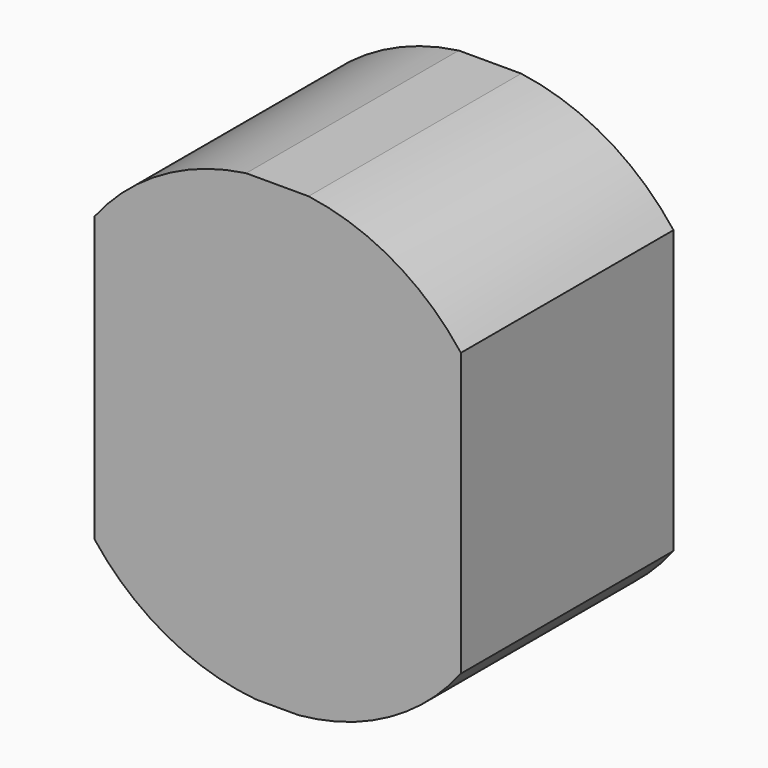
from build123d import *

# Parameters (mm, degrees)
CIRCLE_AS_DRAWN_R                       = 11.25
EXTRUDE002_DEPTH                        = 13
EXTRUDE002_ONTO_CIRCLE_ROLL_ANGLE       = 90
EXTRUDE002_ONTO_CIRCLE_PLACEMENT_ANGLE  = 180
RECTANGLE004_AS_DRAWN_W                 = 17.799999
RECTANGLE004_AS_DRAWN_H                 = 22.34914
EXTRUDE008_DEPTH                        = 13
EXTRUDE008_ONTO_RECTANGLE004_ROLL_ANGLE = 90


with BuildPart() as caixamotor:
    # Circle as drawn → Extrude002 (new)
    with BuildSketch(Plane.XY):
        Circle(CIRCLE_AS_DRAWN_R)
    extrude(amount=EXTRUDE002_DEPTH)


with BuildPart() as caixamotor_1:
    # Extrude002 onto Circle roll: moved
    add(caixamotor.part.rotate(Axis((0, 0, 0), (1, 0, 0)), EXTRUDE002_ONTO_CIRCLE_ROLL_ANGLE))


with BuildPart() as caixamotor_2:
    # Extrude002 onto Circle placement: moved
    add(caixamotor_1.part.moved(Location((9.4, 37, 11.25))).rotate(Axis((9.4, 37, 11.25), (0, 0, 1)), EXTRUDE002_ONTO_CIRCLE_PLACEMENT_ANGLE))


with BuildPart() as booleancaixamotor:
    # Rectangle004 as drawn → Extrude008 (new)
    with BuildSketch(Plane.XY):
        with Locations((8.899999, -11.17457)):
            Rectangle(RECTANGLE004_AS_DRAWN_W, RECTANGLE004_AS_DRAWN_H)
    extrude(amount=-EXTRUDE008_DEPTH)


with BuildPart() as booleancaixamotor_1:
    # Extrude008 onto Rectangle004 roll: moved
    add(booleancaixamotor.part.rotate(Axis((0, 0, 0), (1, 0, 0)), EXTRUDE008_ONTO_RECTANGLE004_ROLL_ANGLE))


with BuildPart() as booleancaixamotor_2:
    # Extrude008 onto Rectangle004 placement: moved
    add(booleancaixamotor_1.part.moved(Location((0.516884, 1.09014, 22.397291))))


with BuildPart() as booleancaixamotor_3:
    # Extrude008 placement: moved
    add(booleancaixamotor_2.part.moved(Location((0, 36, 0))))

    # Common: intersect CaixaMotor
    add(caixamotor_2.part, mode=Mode.INTERSECT)


with BuildPart() as booleancaixamotor_4:
    # Common placement: moved
    add(booleancaixamotor_3.part.moved(Location((0.5, -0.1, 0))))


solid = booleancaixamotor_4.part
